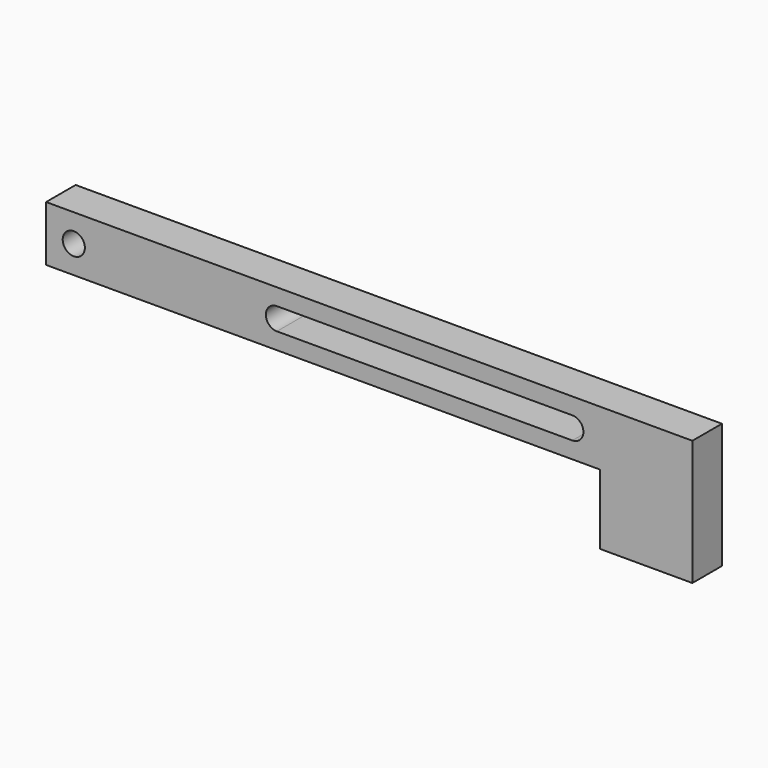
from build123d import *

# Parameters (mm, degrees)
F0_W     = 150
F0_H     = 15
F0_R     = 3
F1_DEPTH = 5
F3_DEPTH = 5


with BuildPart() as f1:
    # F0 (on Front) → F1 (new body, symmetric)
    with BuildSketch(Plane.XZ):
        with Locations((67.5, 0)):
            Rectangle(F0_W, F0_H)
        Circle(F0_R, mode=Mode.SUBTRACT)
        with BuildLine():
            ThreePointArc((55, -3), (52, 0), (55, 3))
            Line((55, 3), (135, 3))
            ThreePointArc((135, 3), (138, 0), (135, -3))
            Line((135, -3), (55, -3))
        make_face(mode=Mode.SUBTRACT)
    extrude(amount=F1_DEPTH, both=True)

    # F2 (on Front) → F3 (join, symmetric)
    with BuildSketch(Plane.XZ):
        Polygon((142.5, 7.5), (142.5, -7.5), (142.5, -26.4143273234), (167.5, -26.4143273234), (167.5, 7.5), align=None)
    extrude(amount=F3_DEPTH, both=True)


solid = f1.part
